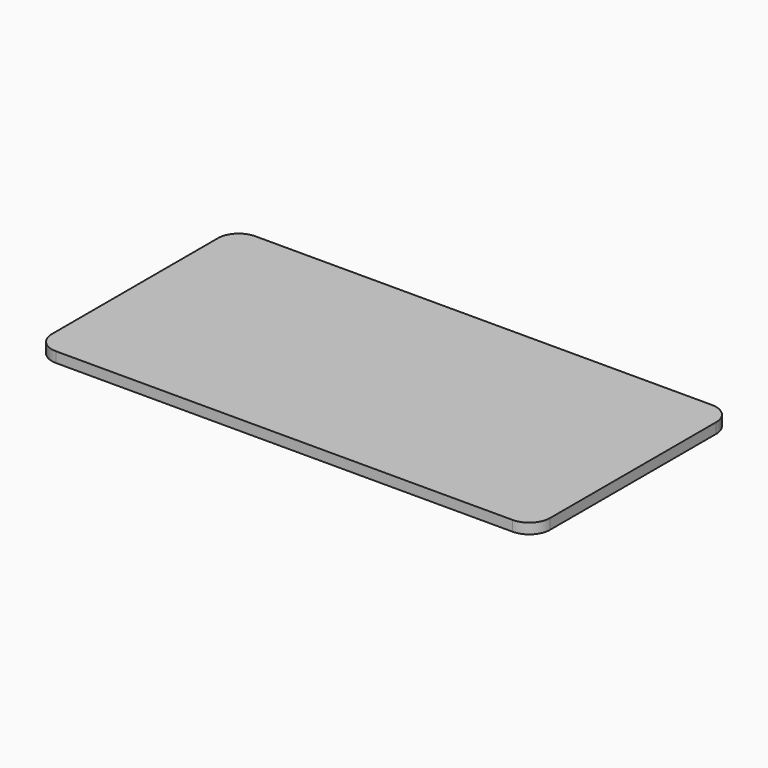
from build123d import *

# Parameters (mm, degrees)
F0_W     = 152.4
F0_H     = 76.2
F1_DEPTH = 3.175
F2_R     = 6.35


with BuildPart() as f1:
    # F0 (on Top) → F1 (new body)
    with BuildSketch(Plane.XY):
        Rectangle(F0_W, F0_H)
    extrude(amount=-F1_DEPTH)

    # F2
    f2_edges = [f1.edges().sort_by_distance(p)[0] for p in [
        (-76.2, -38.1, -1.5875),
        (76.2, -38.1, -1.5875),
        (76.2, 38.1, -1.5875),
        (-76.2, 38.1, -1.5875),
    ]]
    fillet(f2_edges, radius=F2_R)


solid = f1.part
